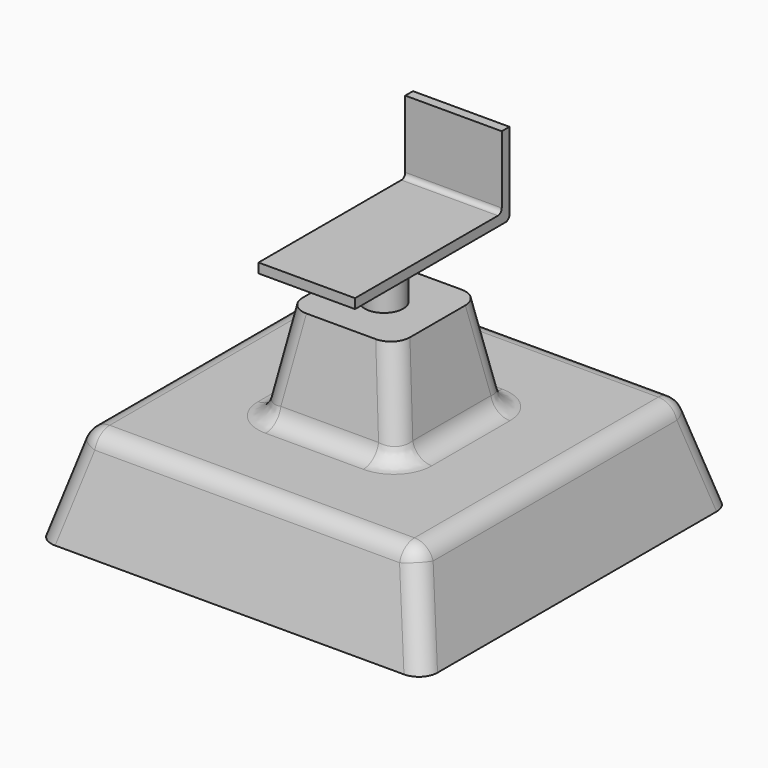
from build123d import *

# Parameters (mm, degrees)
F0_W      = 400
F0_H      = 400
F1_DEPTH  = 100
F1_TAPER  = 15
F2_W      = 146.4101615138
F2_H      = 146.4101615138
F3_DEPTH  = 100
F3_TAPER  = 10
F4_R      = 20
F5_R      = 20
F6_DEPTH  = 50
F7_W      = 100
F7_H      = 200
F7_R      = 20
F8_DEPTH  = 10
F9_W      = 100
F9_H      = 10
F10_DEPTH = 75
F11_R     = 5


with BuildPart() as f1:
    # F0 (on Top) → F1 (new body)
    with BuildSketch(Plane.XY):
        with Locations((200, 200)):
            Rectangle(F0_W, F0_H)
    extrude(amount=F1_DEPTH, taper=F1_TAPER)

    # F2 (on face) → F3 (join)
    with BuildSketch(Plane.XY.offset(100)):
        with Locations((200, 200)):
            Rectangle(F2_W, F2_H)
    extrude(amount=F3_DEPTH, taper=F3_TAPER)

    # F4
    f4_edges = [f1.edges().sort_by_distance(p)[0] for p in [
        (13.39746, 13.39746, 50),
        (386.60254, 13.39746, 50),
        (13.39746, 386.60254, 50),
        (386.60254, 386.60254, 50),
        (200, 373.205081, 100),
        (26.794919, 200, 100),
        (200, 26.794919, 100),
        (373.205081, 200, 100),
        (273.205081, 200, 100),
        (200, 126.794919, 100),
        (264.388732, 135.611268, 150),
        (126.794919, 200, 100),
        (135.611268, 135.611268, 150),
        (200, 273.205081, 100),
        (264.388731, 264.388731, 150.000003),
        (135.611268, 264.388732, 150),
    ]]
    fillet(f4_edges, radius=F4_R)

    # F5 (on face) → F6 (join)
    with BuildSketch(Plane.XY.offset(200)):
        with Locations((200, 200)):
            Circle(F5_R)
    extrude(amount=F6_DEPTH)

    # F7 (on face) → F8 (join)
    with BuildSketch(Plane.XY.offset(250)):
        with Locations((200, 200)):
            Rectangle(F7_W, F7_H)
        with Locations((200, 200)):
            Circle(F7_R, mode=Mode.SUBTRACT)
        with Locations((200, 200)):
            Circle(F7_R)
    extrude(amount=F8_DEPTH)

    # F9 (on face) → F10 (join)
    with BuildSketch(Plane.XY.offset(260)):
        with Locations((200, 295)):
            Rectangle(F9_W, F9_H)
    extrude(amount=F10_DEPTH)

    # F11
    f11_edges = [f1.edges().sort_by_distance(p)[0] for p in [
        (200, 290, 260),
        (200, 300, 250),
    ]]
    fillet(f11_edges, radius=F11_R)


solid = f1.part
